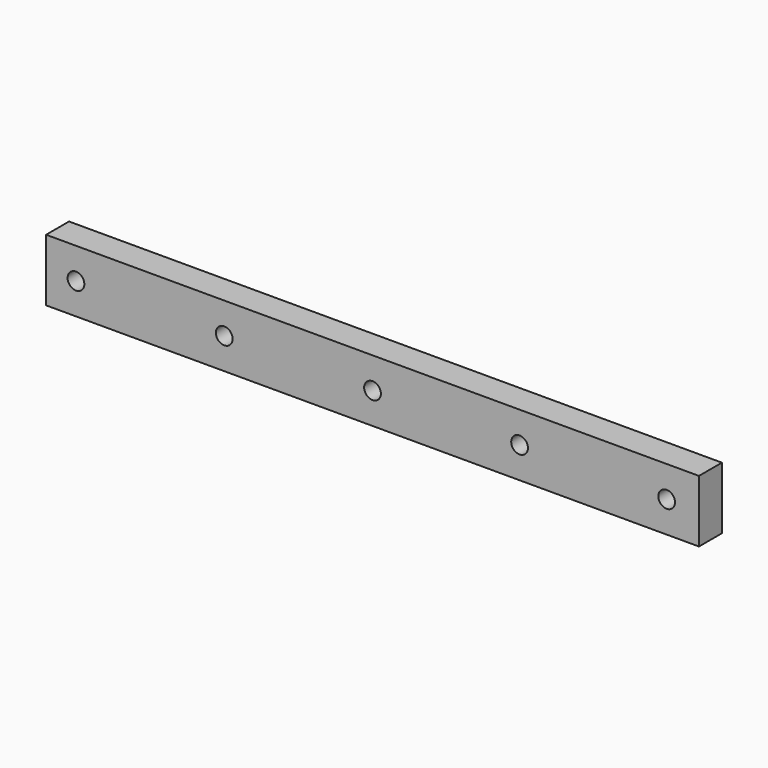
from build123d import *

# Parameters (mm, degrees)
F0_W     = 546
F0_H     = 52
F0_R     = 7
F1_DEPTH = 24


with BuildPart() as f1:
    # F0 (on Front) → F1 (new body)
    with BuildSketch(Plane.XZ):
        Rectangle(F0_W, F0_H)
        with Locations((-248, 0)):
            Circle(F0_R, mode=Mode.SUBTRACT)
        with Locations((-124, 0)):
            Circle(F0_R, mode=Mode.SUBTRACT)
        Circle(F0_R, mode=Mode.SUBTRACT)
        with Locations((123, 0)):
            Circle(F0_R, mode=Mode.SUBTRACT)
        with Locations((246, 0)):
            Circle(F0_R, mode=Mode.SUBTRACT)
    extrude(amount=F1_DEPTH)


solid = f1.part
